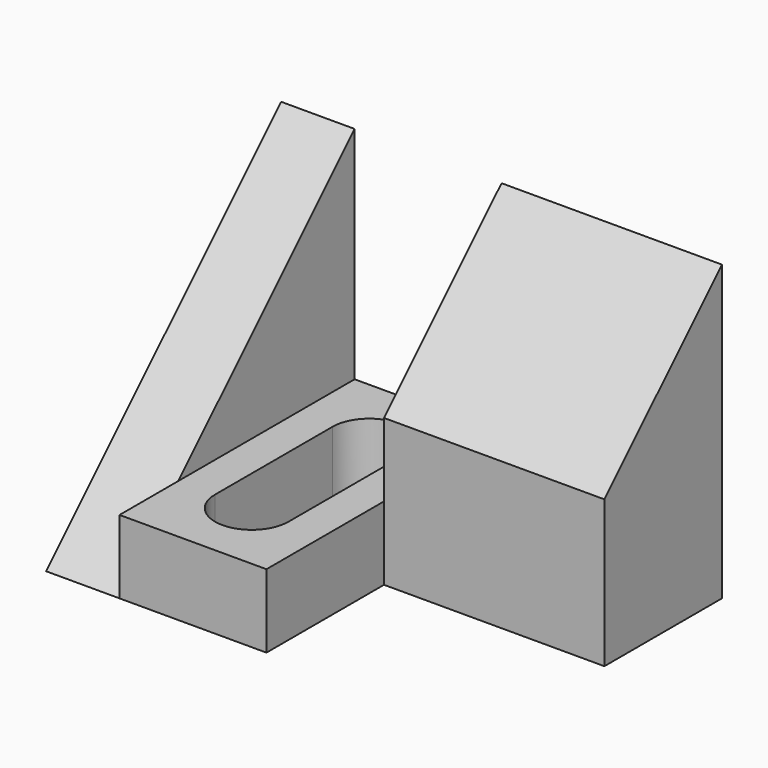
from build123d import *

# Parameters (mm, degrees)
F1_DEPTH = 38.1
F4_DEPTH = 6.35
F5_DEPTH = 19.05
F6_W     = 12.7
F6_H     = 19.543139
F7_DEPTH = 25.401
F9_DEPTH = 6.351


with BuildPart() as f1:
    # F0 (on Right) → F1 (new body)
    with BuildSketch(Plane.YZ):
        Polygon((0, 0), (0, 25.4), (-19.05, 6.35), (-25.4, 6.35), (-25.4, 0), align=None)
    extrude(amount=F1_DEPTH)

    # F3 (on face) → F4 (cut)
    with BuildSketch(Plane(origin=(0, 0, 0), x_dir=(0, -1, 0), z_dir=(-1, 0, 0))):
        Polygon((25.4, 6.35), (19.05, 6.35), (25.4, 0), align=None)
    extrude(amount=-F4_DEPTH, mode=Mode.SUBTRACT)

    # F2 (on face) → F5 (cut)
    with BuildSketch(Plane.YZ.offset(38.1)):
        Polygon((-25.4, 6.35), (-25.4, 0), (-12.7, 0), (-12.7, 12.7), (-19.05, 6.35), align=None)
    extrude(amount=-F5_DEPTH, mode=Mode.SUBTRACT)

    # F6 (on face) → F7 (cut, through all)
    with BuildSketch(Plane.XZ.offset(25.4)):
        with Locations((12.7, 16.121569)):
            Rectangle(F6_W, F6_H)
    extrude(amount=-F7_DEPTH, mode=Mode.SUBTRACT)

    # F8 (on face) → F9 (cut, through all)
    with BuildSketch(Plane.XY.offset(6.35)):
        with BuildLine():
            ThreePointArc((15.875, -6.35), (12.7, -3.175), (9.525, -6.35))
            Line((9.525, -6.35), (9.525, -19.05))
            ThreePointArc((9.525, -19.05), (12.7, -22.225), (15.875, -19.05))
            Line((15.875, -19.05), (15.875, -6.35))
        make_face()
    extrude(amount=-F9_DEPTH, mode=Mode.SUBTRACT)


solid = f1.part
